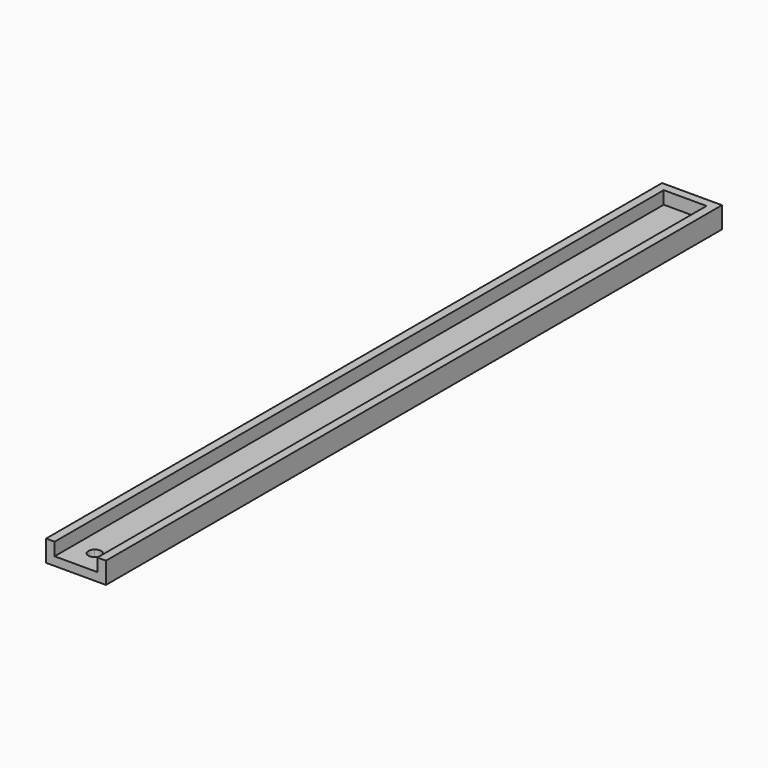
from build123d import *

# Parameters (mm, degrees)
F0_W     = 5
F0_H     = 167
F0_W_2   = 2
F0_H_2   = 11
F1_DEPTH = 2
F2_DEPTH = 5


with BuildPart() as f1:
    # F0 (on Top) → F1 (new body)
    with BuildSketch(Plane.XY):
        Polygon((7, 90), (-7, 90), (-7, -79), (-5, -79), (-5, 88), (0, 88), (5, 88), (5, -79), (7, -79), align=None)
        with Locations((-2.5, 4.5)):
            Rectangle(F0_W, F0_H)
        with Locations((2.5, 4.5)):
            Rectangle(F0_W, F0_H)
        with Locations((-6, -84.5)):
            Rectangle(F0_W_2, F0_H_2)
        with BuildLine():
            Line((-1.009009, -85.60991), (-5, -90))
            Line((-5, -90), (5, -90))
            Line((5, -90), (1.009009, -85.60991))
            ThreePointArc((1.009009, -85.60991), (0, -86), (-1.009009, -85.60991))
        make_face()
        with BuildLine():
            Line((5, -90), (5, -79))
            Line((5, -79), (1.009009, -83.39009))
            ThreePointArc((1.009009, -83.39009), (1.371771, -83.89317), (1.5, -84.5))
            ThreePointArc((1.5, -84.5), (1.371771, -85.10683), (1.009009, -85.60991))
            Line((1.009009, -85.60991), (5, -90))
        make_face()
        with BuildLine():
            Line((0, -79), (-5, -79))
            Line((-5, -79), (-1.009009, -83.39009))
            ThreePointArc((-1.009009, -83.39009), (0, -83), (1.009009, -83.39009))
            Line((1.009009, -83.39009), (5, -79))
            Line((5, -79), (0, -79))
        make_face()
        with BuildLine():
            Line((-1.009009, -83.39009), (-5, -79))
            Line((-5, -79), (-5, -90))
            Line((-5, -90), (-1.009009, -85.60991))
            ThreePointArc((-1.009009, -85.60991), (-1.5, -84.5), (-1.009009, -83.39009))
        make_face()
        with Locations((6, -84.5)):
            Rectangle(F0_W_2, F0_H_2)
    extrude(amount=F1_DEPTH)

    # F0 (on Top) → F2 (join)
    with BuildSketch(Plane.XY):
        Polygon((7, 90), (-7, 90), (-7, -79), (-5, -79), (-5, 88), (0, 88), (5, 88), (5, -79), (7, -79), align=None)
        with Locations((6, -84.5)):
            Rectangle(F0_W_2, F0_H_2)
        with Locations((-6, -84.5)):
            Rectangle(F0_W_2, F0_H_2)
    extrude(amount=F2_DEPTH)


solid = f1.part
